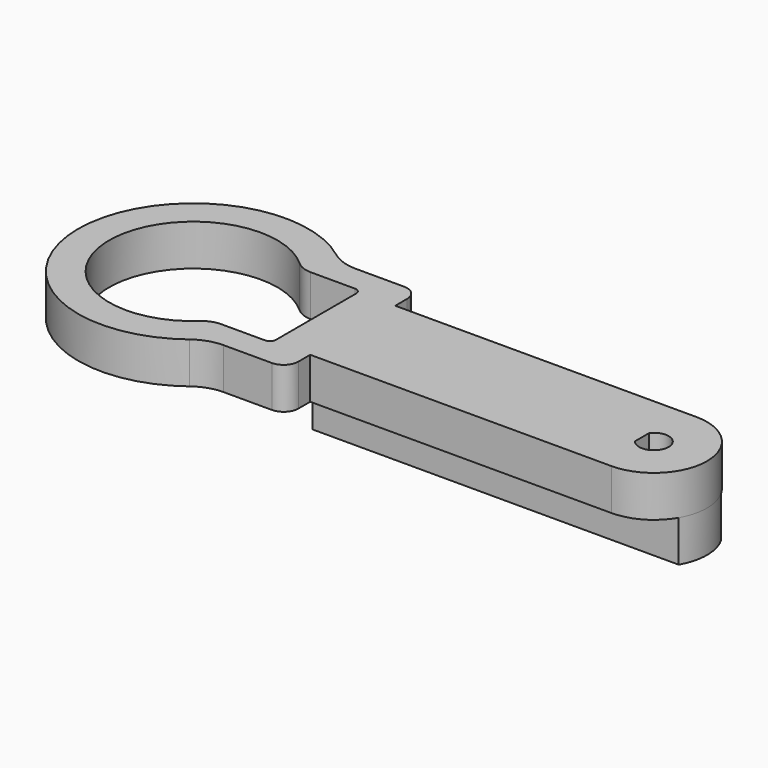
from build123d import *

# Parameters (mm, degrees)
PAD_DEPTH         = 7
PAD001_DEPTH      = 7
POCKET_DEPTH      = 7.001
POCKET_DEPTH_BACK = 7.001


with BuildPart() as part:
    # Sketch → Pad (new body)
    with BuildSketch(Plane.XY):
        with BuildLine():
            Line((-51, 9), (0, 9))
            ThreePointArc((0, -9), (9, 0), (0, 9))
            Line((-51, -9), (0, -9))
            Line((-51, -11.5), (-51, -9))
            ThreePointArc((-53.5, -14), (-51.732233, -13.267767), (-51, -11.5))
            Line((-61.667517, -14), (-53.5, -14))
            ThreePointArc((-61.667517, -14), (-64.061085, -14.392199), (-66.204318, -15.527778))
            ThreePointArc((-66.204318, 15.527778), (-97.5, 0), (-66.204318, -15.527778))
            ThreePointArc((-66.204318, 15.527778), (-64.061085, 14.392199), (-61.667517, 14))
            Line((-61.667517, 14), (-53.5, 14))
            ThreePointArc((-51, 11.5), (-51.732233, 13.267767), (-53.5, 14))
            Line((-51, 11.5), (-51, 9))
        make_face()
        with BuildLine():
            Line((-65.719426, 9.5), (-58.219426, 9.5))
            ThreePointArc((-57.219426, 8.5), (-57.512319, 9.207107), (-58.219426, 9.5))
            Line((-57.219426, 8.5), (-57.219426, -8.5))
            ThreePointArc((-58.219426, -9.5), (-57.512319, -9.207107), (-57.219426, -8.5))
            Line((-58.219426, -9.5), (-65.719426, -9.5))
            ThreePointArc((-65.719426, -9.5), (-67.162406, -9.769342), (-68.411059, -10.541096))
            ThreePointArc((-68.411059, 10.541096), (-92.25, 0), (-68.411059, -10.541096))
            ThreePointArc((-68.411059, 10.541096), (-67.162406, 9.769342), (-65.719426, 9.5))
        make_face(mode=Mode.SUBTRACT)
    extrude(amount=PAD_DEPTH)

    # Sketch001 → Pad001 (join)
    with BuildSketch(Plane.XY):
        with BuildLine():
            Line((-54.205771, 4.5), (-54.205771, -4.5))
            Line((-54.205771, -4.5), (7.794229, -4.5))
            ThreePointArc((7.794229, -4.5), (9, 0), (7.794229, 4.5))
            Line((-54.205771, 4.5), (7.794229, 4.5))
        make_face()
    extrude(amount=-PAD001_DEPTH)

    # Sketch002 → Pocket (cut, two sides)
    with BuildSketch(Plane.XY) as pocket_sk:
        with BuildLine():
            Line((-2, 1.5), (-2, -1.5))
            ThreePointArc((-2, -1.5), (2.5, 0), (-2, 1.5))
        make_face()
    extrude(amount=-POCKET_DEPTH, mode=Mode.SUBTRACT)
    extrude(pocket_sk.sketch, amount=POCKET_DEPTH_BACK, mode=Mode.SUBTRACT)


solid = part.part
